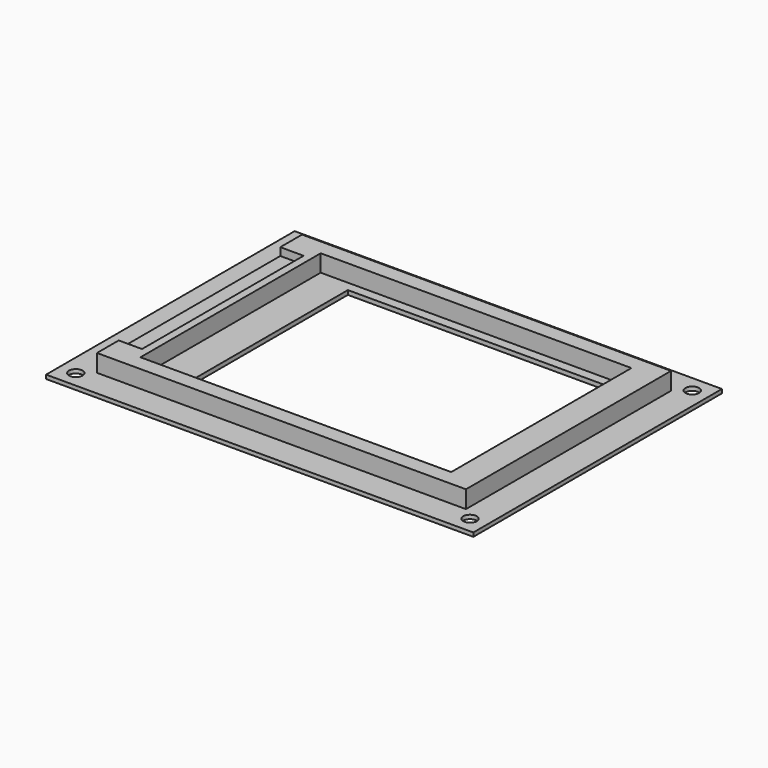
from build123d import *

# Parameters (mm, degrees)
F0_W     = 95
F0_H     = 66
F0_W_2   = 80
F0_H_2   = 58
F0_W_3   = 68.5
F0_H_3   = 53
F1_DEPTH = 0.1
F2_DEPTH = 4.5
F3_W     = 6
F3_H     = 52
F4_DEPTH = 2
F5_W     = 110
F5_H     = 80
F5_R     = 1.75
F5_W_2   = 95
F5_H_2   = 66
F5_W_3   = 68.5
F5_H_3   = 53
F6_DEPTH = 1


with BuildPart() as f1:
    # F0 (on Top) → F1 (new body)
    with BuildSketch(Plane.XY):
        with Locations((-0.5, 0)):
            Rectangle(F0_W, F0_H)
        Rectangle(F0_W_2, F0_H_2, mode=Mode.SUBTRACT)
        Rectangle(F0_W_2, F0_H_2)
        with Locations((3.25, 0)):
            Rectangle(F0_W_3, F0_H_3, mode=Mode.SUBTRACT)
    extrude(amount=F1_DEPTH)

    # F0 (on Top) → F2 (join)
    with BuildSketch(Plane.XY):
        with Locations((-0.5, 0)):
            Rectangle(F0_W, F0_H)
        Rectangle(F0_W_2, F0_H_2, mode=Mode.SUBTRACT)
    extrude(amount=F2_DEPTH)

    # F3 (on face) → F4 (cut)
    with BuildSketch(Plane.XY.offset(4.5)):
        with Locations((-45, 0)):
            Rectangle(F3_W, F3_H)
    extrude(amount=-F4_DEPTH, mode=Mode.SUBTRACT)

    # F5 (on face) → F6 (join)
    with BuildSketch(Plane(origin=(0, 0, 0), x_dir=(1, 0, 0), z_dir=(0, 0, -1))):
        with Locations((-0.5, 0)):
            Rectangle(F5_W, F5_H)
        with Locations((-51.25, -35.75)):
            Circle(F5_R, mode=Mode.SUBTRACT)
        with Locations((50.25, -35.75)):
            Circle(F5_R, mode=Mode.SUBTRACT)
        with Locations((-51.25, 35.75)):
            Circle(F5_R, mode=Mode.SUBTRACT)
        with Locations((-0.5, 0)):
            Rectangle(F5_W_2, F5_H_2, mode=Mode.SUBTRACT)
        with Locations((50.25, 35.75)):
            Circle(F5_R, mode=Mode.SUBTRACT)
        with Locations((-0.5, 0)):
            Rectangle(F5_W_2, F5_H_2)
        with Locations((3.25, 0)):
            Rectangle(F5_W_3, F5_H_3, mode=Mode.SUBTRACT)
    extrude(amount=F6_DEPTH)


solid = f1.part
